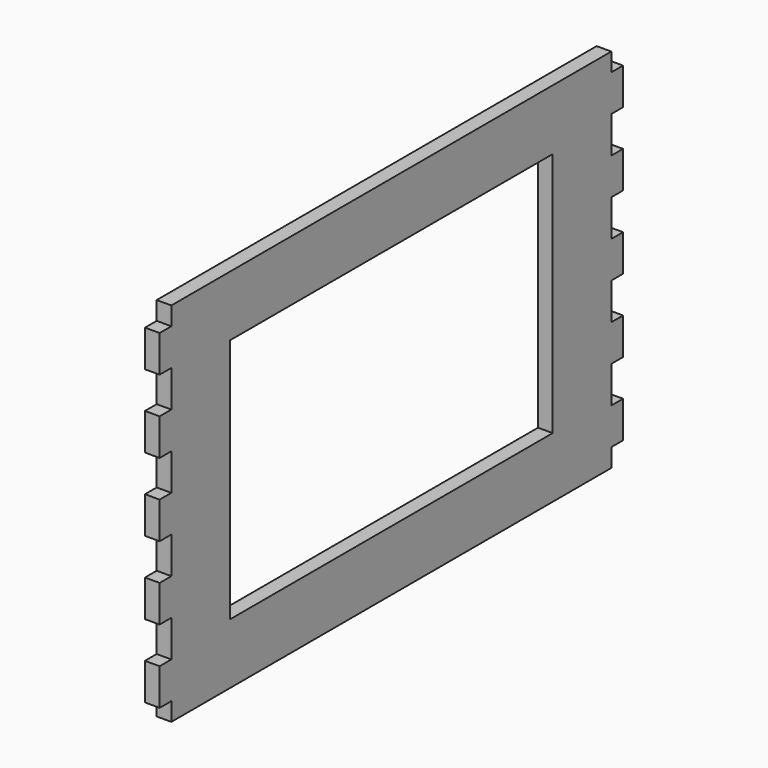
from build123d import *

# Parameters (mm, degrees)
F0_W     = 150
F0_H     = 100
F0_W_2   = 110
F0_H_2   = 67
F1_DEPTH = 4
F2_W     = 4
F2_H     = 5
F2_H_2   = 10
F3_DEPTH = 4


with BuildPart() as f1:
    # F0 (on Right) → F1 (new body)
    with BuildSketch(Plane.YZ):
        Rectangle(F0_W, F0_H)
        Rectangle(F0_W_2, F0_H_2, mode=Mode.SUBTRACT)
    extrude(amount=F1_DEPTH)

    # F2 (on face) → F3 (join)
    with BuildSketch(Plane.YZ.offset(4)):
        with Locations((-77, -2.5)):
            Rectangle(F2_W, F2_H)
        with Locations((-77, 2.5)):
            Rectangle(F2_W, F2_H)
        Polygon((-75, 25), (-79, 25), (-79, 20), (-79, 15), (-75, 15), align=None)
        Polygon((-75, 45), (-79, 45), (-79, 40), (-79, 35), (-75, 35), align=None)
        Polygon((-79, -45), (-75, -45), (-75, -35), (-79, -35), (-79, -40), align=None)
        with Locations((-77, -20)):
            Rectangle(F2_W, F2_H_2)
        with Locations((77, -20)):
            Rectangle(F2_W, F2_H_2)
        Polygon((79, 15), (79, 20), (79, 25), (75, 25), (75, 15), align=None)
        with Locations((77, -2.5)):
            Rectangle(F2_W, F2_H)
        with Locations((77, 2.5)):
            Rectangle(F2_W, F2_H)
        Polygon((75, 45), (75, 35), (79, 35), (79, 40), (79, 45), align=None)
        Polygon((79, -40), (79, -35), (75, -35), (75, -45), (79, -45), align=None)
    extrude(amount=-F3_DEPTH)


solid = f1.part
